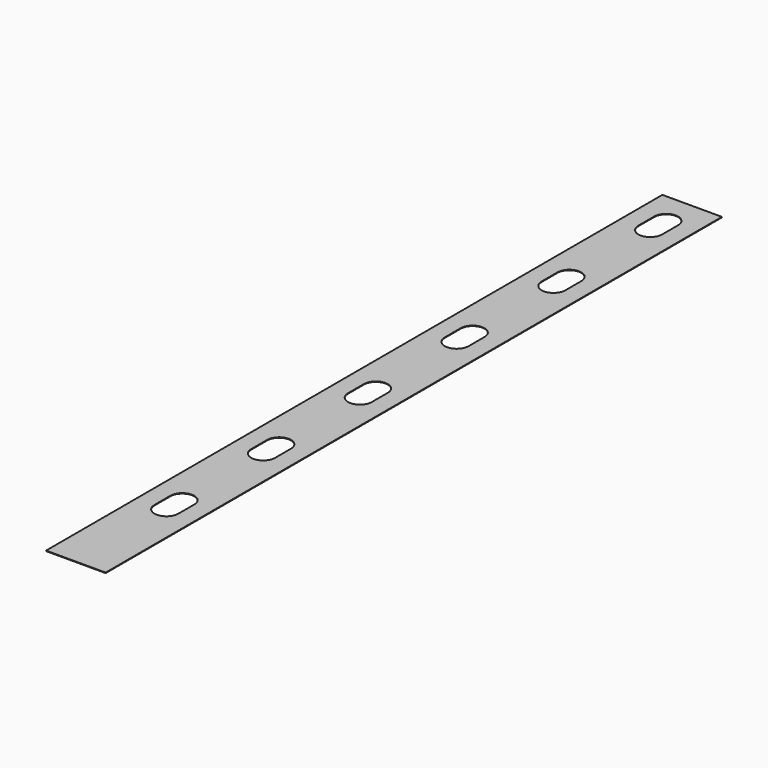
from build123d import *

# Parameters (mm, degrees)
F0_W     = 75
F0_H     = 970
F1_DEPTH = 0.65


with BuildPart() as f1:
    # F0 (on Top) → F1 (new body)
    with BuildSketch(Plane.XY):
        with Locations((-126.306695, -88.421187)):
            Rectangle(F0_W, F0_H)
        with BuildLine():
            ThreePointArc((-111.306695, -430.871187), (-126.306695, -445.871187), (-141.306695, -430.871187))
            Line((-141.306695, -430.871187), (-141.306695, -405.871187))
            ThreePointArc((-141.306695, -405.871187), (-126.306695, -390.871187), (-111.306695, -405.871187))
            Line((-111.306695, -405.871187), (-111.306695, -430.871187))
        make_face(mode=Mode.SUBTRACT)
        with BuildLine():
            ThreePointArc((-111.306695, -278.561187), (-126.306695, -293.561187), (-141.306695, -278.561187))
            Line((-141.306695, -278.561187), (-141.306695, -253.561187))
            ThreePointArc((-141.306695, -253.561187), (-126.306695, -238.561187), (-111.306695, -253.561187))
            Line((-111.306695, -253.561187), (-111.306695, -278.561187))
        make_face(mode=Mode.SUBTRACT)
        with BuildLine():
            ThreePointArc((-111.306695, -126.251187), (-126.306695, -141.251187), (-141.306695, -126.251187))
            Line((-141.306695, -126.251187), (-141.306695, -101.251187))
            ThreePointArc((-141.306695, -101.251187), (-126.306695, -86.251187), (-111.306695, -101.251187))
            Line((-111.306695, -101.251187), (-111.306695, -126.251187))
        make_face(mode=Mode.SUBTRACT)
        with BuildLine():
            ThreePointArc((-111.306695, 26.058813), (-126.306695, 11.058813), (-141.306695, 26.058813))
            Line((-141.306695, 26.058813), (-141.306695, 51.058813))
            ThreePointArc((-141.306695, 51.058813), (-126.306695, 66.058813), (-111.306695, 51.058813))
            Line((-111.306695, 51.058813), (-111.306695, 26.058813))
        make_face(mode=Mode.SUBTRACT)
        with BuildLine():
            ThreePointArc((-111.306695, 178.368813), (-126.306695, 163.368813), (-141.306695, 178.368813))
            Line((-141.306695, 178.368813), (-141.306695, 203.368813))
            ThreePointArc((-141.306695, 203.368813), (-126.306695, 218.368813), (-111.306695, 203.368813))
            Line((-111.306695, 203.368813), (-111.306695, 178.368813))
        make_face(mode=Mode.SUBTRACT)
        with BuildLine():
            ThreePointArc((-111.306695, 330.678813), (-126.306695, 315.678813), (-141.306695, 330.678813))
            Line((-141.306695, 330.678813), (-141.306695, 355.678813))
            ThreePointArc((-141.306695, 355.678813), (-126.306695, 370.678813), (-111.306695, 355.678813))
            Line((-111.306695, 355.678813), (-111.306695, 330.678813))
        make_face(mode=Mode.SUBTRACT)
        with Locations((-126.306695, -88.421187)):
            Rectangle(F0_W, F0_H)
        with BuildLine():
            ThreePointArc((-111.306695, -430.871187), (-126.306695, -445.871187), (-141.306695, -430.871187))
            Line((-141.306695, -430.871187), (-141.306695, -405.871187))
            ThreePointArc((-141.306695, -405.871187), (-126.306695, -390.871187), (-111.306695, -405.871187))
            Line((-111.306695, -405.871187), (-111.306695, -430.871187))
        make_face(mode=Mode.SUBTRACT)
        with BuildLine():
            ThreePointArc((-111.306695, -278.561187), (-126.306695, -293.561187), (-141.306695, -278.561187))
            Line((-141.306695, -278.561187), (-141.306695, -253.561187))
            ThreePointArc((-141.306695, -253.561187), (-126.306695, -238.561187), (-111.306695, -253.561187))
            Line((-111.306695, -253.561187), (-111.306695, -278.561187))
        make_face(mode=Mode.SUBTRACT)
        with BuildLine():
            ThreePointArc((-111.306695, -126.251187), (-126.306695, -141.251187), (-141.306695, -126.251187))
            Line((-141.306695, -126.251187), (-141.306695, -101.251187))
            ThreePointArc((-141.306695, -101.251187), (-126.306695, -86.251187), (-111.306695, -101.251187))
            Line((-111.306695, -101.251187), (-111.306695, -126.251187))
        make_face(mode=Mode.SUBTRACT)
        with BuildLine():
            ThreePointArc((-111.306695, 26.058813), (-126.306695, 11.058813), (-141.306695, 26.058813))
            Line((-141.306695, 26.058813), (-141.306695, 51.058813))
            ThreePointArc((-141.306695, 51.058813), (-126.306695, 66.058813), (-111.306695, 51.058813))
            Line((-111.306695, 51.058813), (-111.306695, 26.058813))
        make_face(mode=Mode.SUBTRACT)
        with BuildLine():
            ThreePointArc((-111.306695, 178.368813), (-126.306695, 163.368813), (-141.306695, 178.368813))
            Line((-141.306695, 178.368813), (-141.306695, 203.368813))
            ThreePointArc((-141.306695, 203.368813), (-126.306695, 218.368813), (-111.306695, 203.368813))
            Line((-111.306695, 203.368813), (-111.306695, 178.368813))
        make_face(mode=Mode.SUBTRACT)
        with BuildLine():
            ThreePointArc((-111.306695, 330.678813), (-126.306695, 315.678813), (-141.306695, 330.678813))
            Line((-141.306695, 330.678813), (-141.306695, 355.678813))
            ThreePointArc((-141.306695, 355.678813), (-126.306695, 370.678813), (-111.306695, 355.678813))
            Line((-111.306695, 355.678813), (-111.306695, 330.678813))
        make_face(mode=Mode.SUBTRACT)
    extrude(amount=F1_DEPTH)


solid = f1.part
